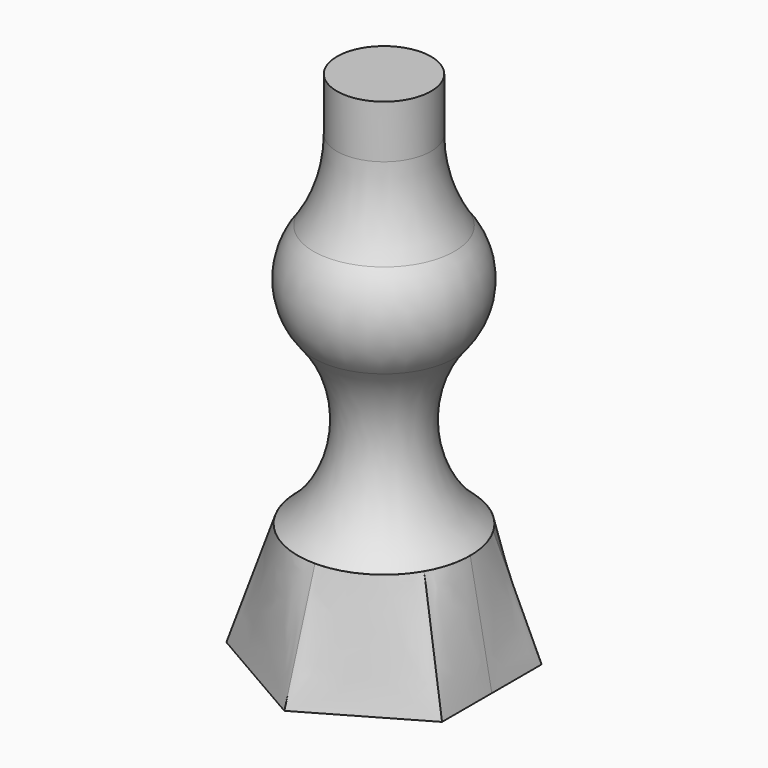
from build123d import *

# Parameters (mm, degrees)
F1_FACE_R = 19.201754


with BuildPart() as f1:
    # F0 (on Front) → F1 (revolve)
    with BuildSketch(Plane.XZ):
        with BuildLine():
            ThreePointArc((-15.710527, 6.54605), (-9.474287, -12.96179), (-19.201754, -30.984635))
            Line((-19.201754, -30.984635), (0, -30.984635))
            Line((0, -30.984635), (0, 57.168834))
            Line((0, 57.168834), (-10.473687, 57.168834))
            Line((-10.473687, 57.168834), (-10.473687, 45.385942))
            ThreePointArc((-10.473687, 45.385942), (-11.809795, 36.064364), (-15.710527, 27.493408))
            ThreePointArc((-15.710527, 27.493408), (-19.432872, 17.019729), (-15.710527, 6.54605))
        make_face()
    revolve(axis=Axis((0, 0, 13.0921), (0, 0, 1)))


with BuildPart() as f4:
    # F1_face (on face) → F4 section 0
    with BuildSketch(Plane(origin=(0, 0, -30.984635), x_dir=(1, 0, 0), z_dir=(0, 0, -1))):
        Circle(F1_FACE_R)
    # F3 (on offset) → F4 section 1
    with BuildSketch(Plane(origin=(0, 0, -56.384635), x_dir=(1, 0, 0), z_dir=(0, 0, -1))):
        Polygon((-24.002183, 13.857667), (-24.002183, -13.857667), (0, -27.715334), (24.002183, -13.857667), (24.002183, 13.857667), (0, 27.715334), align=None)
    loft()


solid = Compound([f1.part, f4.part])
